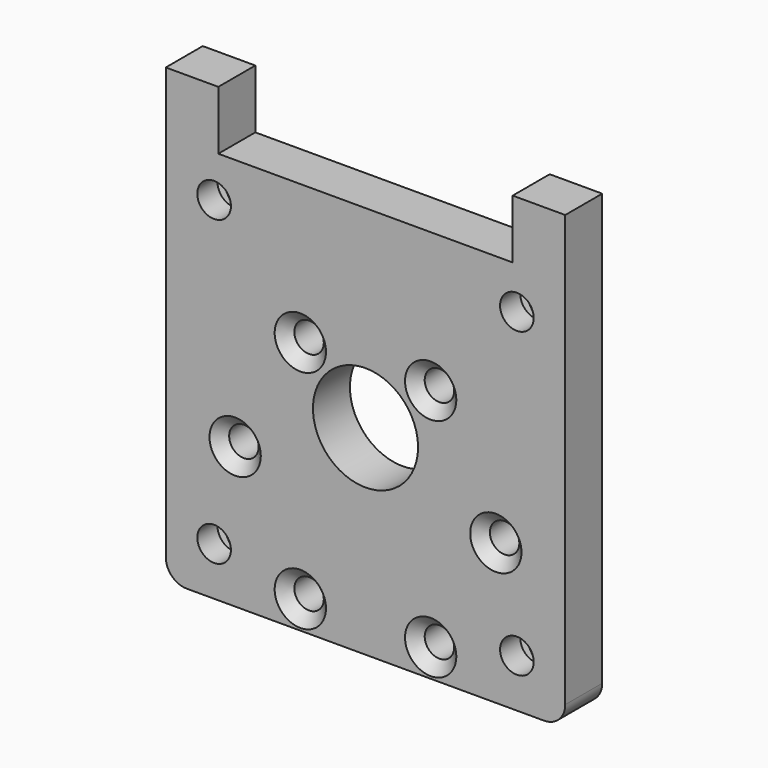
from build123d import *

# Parameters (mm, degrees)
SKETCH_R     = 6.25
SKETCH_R_2   = 1.75
SKETCH_R_3   = 2
PAD_DEPTH    = 5.5
CHAMFER_SIZE = 1.3
POCKET_DEPTH = 2.5


with BuildPart() as part:
    # Sketch → Pad (new body)
    with BuildSketch(Plane.XZ):
        with BuildLine():
            Line((21.25, -16.75), (-21.25, -16.75))
            ThreePointArc((-23.75, -14.25), (-23.017767, -16.017767), (-21.25, -16.75))
            Line((-23.75, 37), (-23.75, -14.25))
            Line((-23.75, 37), (-17.5, 37))
            Line((-17.5, 37), (-17.5, 30))
            Line((-17.5, 30), (17.5, 30))
            Line((17.5, 30), (17.5, 37))
            Line((17.5, 37), (23.75, 37))
            Line((23.75, 37), (23.75, -14.25))
            ThreePointArc((21.25, -16.75), (23.017767, -16.017767), (23.75, -14.25))
        make_face()
        with Locations((0, 7)):
            Circle(SKETCH_R, mode=Mode.SUBTRACT)
        with Locations((-7.75, 13.423394)):
            Circle(SKETCH_R_2, mode=Mode.SUBTRACT)
        with Locations((-15.5, 0)):
            Circle(SKETCH_R_2, mode=Mode.SUBTRACT)
        with Locations((-7.75, -13.423394)):
            Circle(SKETCH_R_2, mode=Mode.SUBTRACT)
        with Locations((7.75, -13.423394)):
            Circle(SKETCH_R_2, mode=Mode.SUBTRACT)
        with Locations((15.5, 0)):
            Circle(SKETCH_R_2, mode=Mode.SUBTRACT)
        with Locations((7.75, 13.423394)):
            Circle(SKETCH_R_2, mode=Mode.SUBTRACT)
        with Locations((-18, 25)):
            Circle(SKETCH_R_3, mode=Mode.SUBTRACT)
        with Locations((18, 25)):
            Circle(SKETCH_R_3, mode=Mode.SUBTRACT)
        with Locations((18, -11)):
            Circle(SKETCH_R_3, mode=Mode.SUBTRACT)
        with Locations((-18, -11)):
            Circle(SKETCH_R_3, mode=Mode.SUBTRACT)
    extrude(amount=PAD_DEPTH)

    # Chamfer
    chamfer_edges = [part.edges().sort_by_distance(p)[0] for p in [
        (-9.5, -5.5, 13.423394),
        (13.75, -5.5, 0),
        (6, -5.5, 13.423394),
        (-17.25, -5.5, 0),
        (6, -5.5, -13.423394),
        (-9.5, -5.5, -13.423394),
    ]]
    chamfer(chamfer_edges, length=CHAMFER_SIZE)

    # Sketch001 → Pocket (cut)
    with BuildSketch(Plane.XZ):
        Polygon((-15.863804, 28.7), (-20.136196, 28.7), (-22.272392, 25), (-20.136196, 21.3), (-15.863804, 21.3), (-13.727608, 25), align=None)
        Polygon((20.136196, 28.7), (15.863804, 28.7), (13.727608, 25), (15.863804, 21.3), (20.136196, 21.3), (22.272392, 25), align=None)
        Polygon((20.136196, -7.3), (15.863804, -7.3), (13.727608, -11), (15.863804, -14.7), (20.136196, -14.7), (22.272392, -11), align=None)
        Polygon((-15.863804, -7.3), (-20.136196, -7.3), (-22.272392, -11), (-20.136196, -14.7), (-15.863804, -14.7), (-13.727608, -11), align=None)
    extrude(amount=POCKET_DEPTH, mode=Mode.SUBTRACT)


solid = part.part
